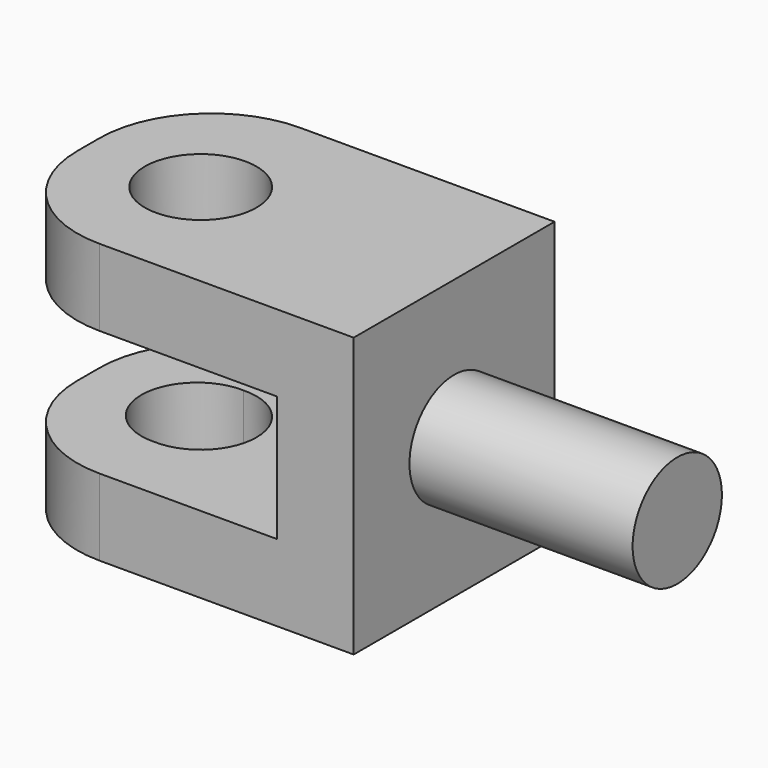
from build123d import *

# Parameters (mm, degrees)
F1_DEPTH = 36
F2_R     = 8
F3_DEPTH = 32
F4_R     = 8
F5_DEPTH = 29.001
F6_R     = 8
F7_DEPTH = 29.001
F8_D     = 16
F9_R     = 16


with BuildPart() as f1:
    # F0 (on Front) → F1 (new body)
    with BuildSketch(Plane.XZ):
        Polygon((19.2118563248, 11), (-33.2294469934, 11), (-33.2294469934, 0), (8.2118563248, 0), (8.2118563248, -18), (-33.2294469934, -18), (-33.2294469934, -29), (19.2118563248, -29), (19.2118563248, -18), (19.2118563248, 0), align=None)
    extrude(amount=F1_DEPTH)

    # F2 (on face) → F3 (join)
    with BuildSketch(Plane.YZ.offset(19.2118563248)):
        with Locations((-18, -9)):
            Circle(F2_R)
    extrude(amount=F3_DEPTH)

    # F4 (on Top) → F5 (cut, through all)
    with BuildSketch(Plane.XY):
        with Locations((-16.9795084218, -18.1846376508)):
            Circle(F4_R)
    extrude(amount=-F5_DEPTH, mode=Mode.SUBTRACT)

    # F6 (on Top) → F7 (cut, through all)
    with BuildSketch(Plane.XY):
        with Locations((-17.4762796468, -18.1846376508)):
            Circle(F6_R)
    extrude(amount=-F7_DEPTH, mode=Mode.SUBTRACT)

    # F8 (through all)
    with Locations(Plane(origin=(0, 0, 0), x_dir=(1, 0, 0), z_dir=(0, 0, -1))):
        with Locations((-16.9795084218, 18.1846376508)):
            Hole(F8_D / 2)

    # F9
    f9_edges = [f1.edges().sort_by_distance(p)[0] for p in [
        (-33.229447, 0, -23.5),
        (-33.229447, 0, 5.5),
        (-33.229447, -36, 5.5),
        (-33.229447, -36, -23.5),
    ]]
    fillet(f9_edges, radius=F9_R)


solid = f1.part
